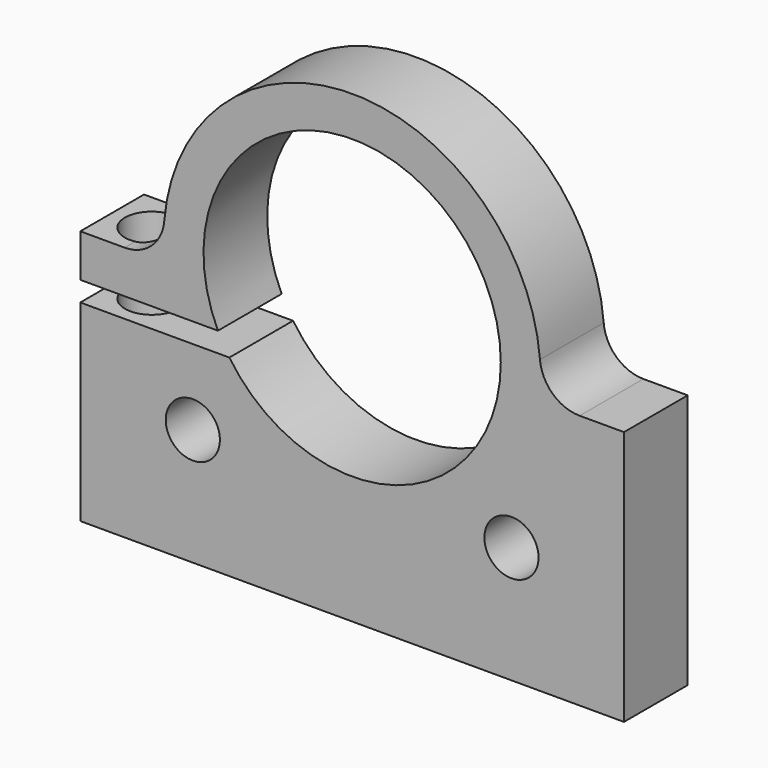
from build123d import *

# Parameters (mm, degrees)
F0_R     = 2.159
F1_DEPTH = 6.35
F2_R     = 2.159
F3_DEPTH = 38.1


with BuildPart() as f1:
    # F0 (on Front) → F1 (new body)
    with BuildSketch(Plane.XZ):
        with BuildLine():
            ThreePointArc((-10.70052, -5.089209), (10.275417, 5.90059), (-9.788908, -6.676709))
            Line((-9.788908, -6.676709), (-21.670413, -6.676709))
            Line((-21.670413, -6.676709), (-21.670413, -22.018309))
            Line((-21.670413, -22.018309), (21.670413, -22.018309))
            Line((21.670413, -22.018309), (21.670413, -1.679891))
            Line((21.670413, -1.679891), (18.137582, -1.679891))
            ThreePointArc((18.137582, -1.679891), (15.986714, -0.840354), (14.973315, 1.234274))
            ThreePointArc((14.973315, 1.234274), (0, 15.0241), (-14.973315, 1.234274))
            ThreePointArc((-14.973315, 1.234274), (-15.986714, -0.840354), (-18.137582, -1.679891))
            Line((-18.137582, -1.679891), (-21.670413, -1.679891))
            Line((-21.670413, -1.679891), (-21.670413, -5.089209))
            Line((-21.670413, -5.089209), (-10.70052, -5.089209))
        make_face()
        with Locations((-12.7, -12.7)):
            Circle(F0_R, mode=Mode.SUBTRACT)
        with Locations((12.7, -12.7)):
            Circle(F0_R, mode=Mode.SUBTRACT)
    extrude(amount=F1_DEPTH)

    # F2 (on face) → F3 (cut, symmetric)
    with BuildSketch(Plane.XY.offset(-1.679891)):
        with Locations((-18.495413, -3.175)):
            Circle(F2_R)
    extrude(amount=F3_DEPTH, both=True, mode=Mode.SUBTRACT)


solid = f1.part
